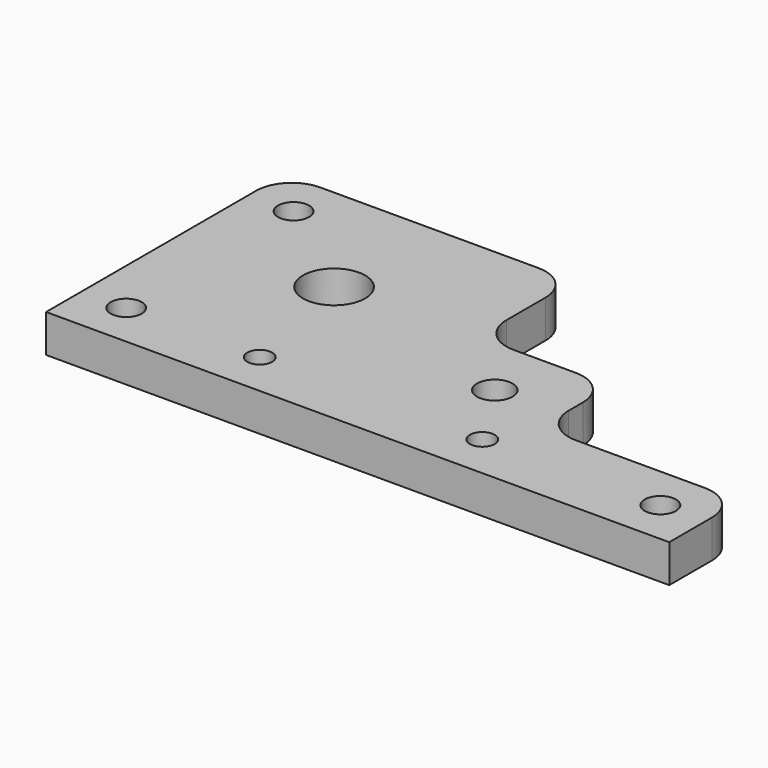
from build123d import *

# Parameters (mm, degrees)
PAD002_DEPTH      = 2.5
CYLINDER003_R     = 2.8
CYLINDER003_DEPTH = 15
CYLINDER004_R     = 1.5
CYLINDER004_DEPTH = 8.5
CYLINDER001_R     = 3.5
CYLINDER001_DEPTH = 4
CYLINDER_R        = 3.5
CYLINDER_DEPTH    = 4
CYLINDER002_R     = 3.5
CYLINDER002_DEPTH = 4
PAD001_DEPTH      = 2.5
PAD003_DEPTH      = 2.5
CYLINDER006_R     = 2.8
CYLINDER006_DEPTH = 15
CYLINDER005_R     = 1.5
CYLINDER005_DEPTH = 8.5
SKETCH_R          = 2
SKETCH_R_2        = 7
SKETCH_R_3        = 4
PAD_DEPTH         = 8.5


with BuildPart() as body002:
    # Sketch002 → Pad002 (new body)
    with BuildSketch(Plane.XY):
        Polygon((0, -3.2), (2.771281, -1.6), (2.771281, 1.6), (0, 3.2), (-2.771281, 1.6), (-2.771281, -1.6), align=None)
    extrude(amount=PAD002_DEPTH)


with BuildPart() as cylinder003:
    # Cylinder003 → Cylinder003 (new body)
    with BuildSketch(Plane.XY.offset(5.5)):
        Circle(CYLINDER003_R)
    extrude(amount=CYLINDER003_DEPTH)


with BuildPart() as fusion001:
    # Cylinder004 → Cylinder004 (new body)
    with BuildSketch(Plane.XY):
        Circle(CYLINDER004_R)
    extrude(amount=CYLINDER004_DEPTH)

    # Fusion001: union Body002, Cylinder003
    add(body002.part)
    add(cylinder003.part)


with BuildPart() as fusion001_1:
    # Fusion001 placement: moved
    add(fusion001.part.moved(Location((40, 10, 0))))


with BuildPart() as cylinder001:
    # Cylinder001 → Cylinder001 (new body)
    with BuildSketch(Plane(origin=(130, 10, 4.5), x_dir=(1, 0, 0), z_dir=(0, 0, 1))):
        Circle(CYLINDER001_R)
    extrude(amount=CYLINDER001_DEPTH)


with BuildPart() as cylinder:
    # Cylinder → Cylinder (new body)
    with BuildSketch(Plane(origin=(10, 10, 4.5), x_dir=(1, 0, 0), z_dir=(0, 0, 1))):
        Circle(CYLINDER_R)
    extrude(amount=CYLINDER_DEPTH)


with BuildPart() as cylinder002:
    # Cylinder002 → Cylinder002 (new body)
    with BuildSketch(Plane(origin=(10, 57, 4.5), x_dir=(1, 0, 0), z_dir=(0, 0, 1))):
        Circle(CYLINDER002_R)
    extrude(amount=CYLINDER002_DEPTH)


with BuildPart() as fusion:
    # Sketch001 → Pad001 (new body, symmetric)
    with BuildSketch(Plane.XY):
        Polygon((0, -5.773503), (5, -2.886751), (5, 2.886751), (0, 5.773503), (-5, 2.886751), (-5, -2.886751), align=None)
    extrude(amount=PAD001_DEPTH, both=True)


with BuildPart() as fusion_1:
    # Body001 placement: moved
    add(fusion.part.moved(Location((80, 26, 0))))

    # Fusion: union Cylinder001, Cylinder, Cylinder002
    add(cylinder001.part)
    add(cylinder.part)
    add(cylinder002.part)


with BuildPart() as body003:
    # Sketch003 → Pad003 (new body)
    with BuildSketch(Plane.XY):
        Polygon((0, -3.2), (2.771281, -1.6), (2.771281, 1.6), (0, 3.2), (-2.771281, 1.6), (-2.771281, -1.6), align=None)
    extrude(amount=PAD003_DEPTH)


with BuildPart() as cylinder006:
    # Cylinder006 → Cylinder006 (new body)
    with BuildSketch(Plane.XY.offset(5.5)):
        Circle(CYLINDER006_R)
    extrude(amount=CYLINDER006_DEPTH)


with BuildPart() as fusion003:
    # Cylinder005 → Cylinder005 (new body)
    with BuildSketch(Plane.XY):
        Circle(CYLINDER005_R)
    extrude(amount=CYLINDER005_DEPTH)

    # Fusion002: union Body003, Cylinder006
    add(body003.part)
    add(cylinder006.part)


with BuildPart() as fusion003_1:
    # Fusion002 placement: moved
    add(fusion003.part.moved(Location((90, 10, 0))))

    # Fusion003: union Fusion001, Fusion
    add(fusion001_1.part)
    add(fusion_1.part)


with BuildPart() as cut:
    # Sketch → Pad (new body)
    with BuildSketch(Plane.XY):
        with BuildLine():
            Line((0, 0), (0, 59))
            ThreePointArc((8, 67), (2.343146, 64.656854), (0, 59))
            Line((8, 67), (57, 67))
            ThreePointArc((65, 59), (62.656854, 64.656854), (57, 67))
            Line((65, 59), (65, 48))
            ThreePointArc((65, 48), (67.343146, 42.343146), (73, 40))
            Line((73, 40), (87, 40))
            ThreePointArc((95, 32), (92.656854, 37.656854), (87, 40))
            Line((95, 32), (95, 28))
            ThreePointArc((95, 28), (97.343146, 22.343146), (103, 20))
            Line((103, 20), (132, 20))
            ThreePointArc((140, 12), (137.656854, 17.656854), (132, 20))
            Line((140, 12), (140, 0))
            Line((140, 0), (0, 0))
        make_face()
        with Locations((10, 10)):
            Circle(SKETCH_R, mode=Mode.SUBTRACT)
        with Locations((10, 57)):
            Circle(SKETCH_R, mode=Mode.SUBTRACT)
        with Locations((33.5, 39)):
            Circle(SKETCH_R_2, mode=Mode.SUBTRACT)
        with Locations((80, 26)):
            Circle(SKETCH_R_3, mode=Mode.SUBTRACT)
        with Locations((130, 10)):
            Circle(SKETCH_R, mode=Mode.SUBTRACT)
    extrude(amount=PAD_DEPTH)

    # Cut: cut Fusion003
    add(fusion003_1.part, mode=Mode.SUBTRACT)


solid = cut.part
